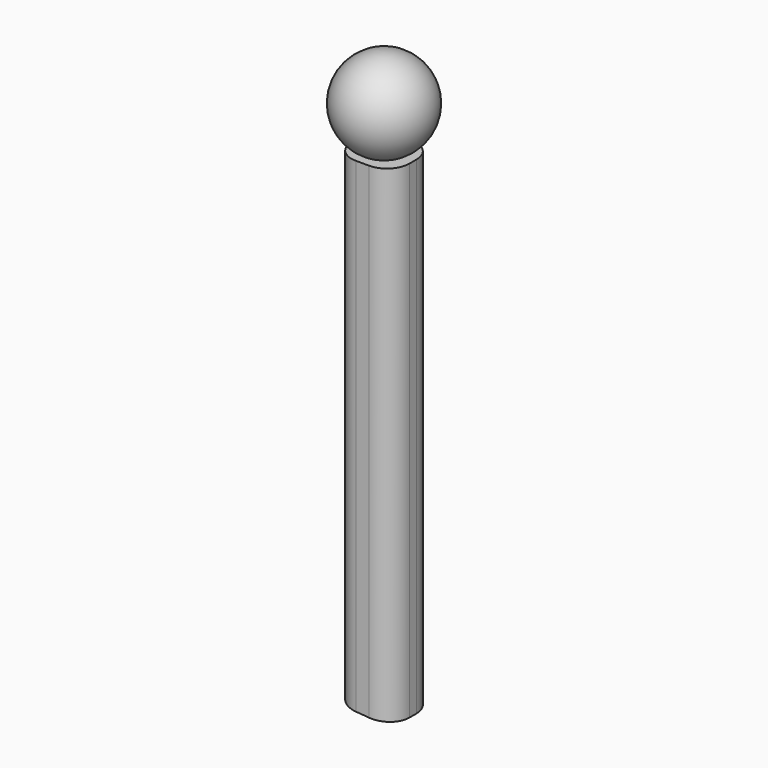
from build123d import *

# Parameters (mm, degrees)
F3_DEPTH      = 3.81
F3_DEPTH_BACK = 3.81
F4_R          = 3.175


with BuildPart() as f1:
    # F0 (on Front) → F1 (revolve)
    with BuildSketch(Plane.XZ):
        with BuildLine():
            Line((0, -6.35), (0, 6.35))
            ThreePointArc((0, 6.35), (-6.35, 0), (0, -6.35))
        make_face()
    revolve(axis=Axis((0, 0, 0), (0, 0, -1)))

    # F2 (on Front) → F3 (join, two sides)
    with BuildSketch(Plane.XZ) as f3_sk:
        Polygon((4.1104733182, -5.9445748625), (-4.1104737839, -5.9445748625), (-4.1104737839, -74.5245748625), (4.1104733182, -75.1735985691), align=None)
    extrude(amount=-F3_DEPTH)
    extrude(f3_sk.sketch, amount=F3_DEPTH_BACK)

    # F4
    f4_edges = [f1.edges().sort_by_distance(p)[0] for p in [
        (4.110473, -3.81, -40.559087),
        (4.110473, 3.81, -40.559087),
        (-4.110474, -3.81, -40.234575),
        (-4.110474, 3.81, -40.234575),
    ]]
    fillet(f4_edges, radius=F4_R)


solid = f1.part
